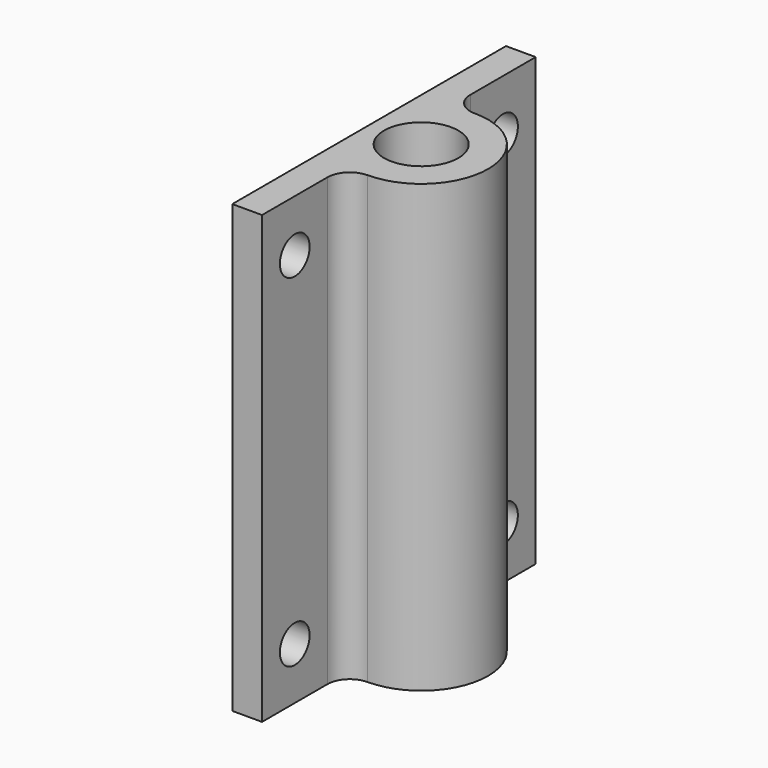
from build123d import *

# Parameters (mm, degrees)
F0_R     = 5
F1_DEPTH = 2
F2_R     = 5
F3_DEPTH = 58
F4_R     = 2.5
F5_DEPTH = 10


with BuildPart() as f1:
    # F0 (on Top) → F1 (new body)
    with BuildSketch(Plane.XY):
        with BuildLine():
            ThreePointArc((-3, -12), (-2.12132, -9.87868), (0, -9))
            ThreePointArc((0, -9), (9, 0), (0, 9))
            ThreePointArc((0, 9), (-2.12132, 9.87868), (-3, 12))
            Line((-3, 12), (-3, 23))
            Line((-3, 23), (-7, 23))
            Line((-7, 23), (-7, -23))
            Line((-7, -23), (-3, -23))
            Line((-3, -23), (-3, -12))
        make_face()
        Circle(F0_R, mode=Mode.SUBTRACT)
        Circle(F0_R)
    extrude(amount=F1_DEPTH)

    # F2 (on face) → F3 (join)
    with BuildSketch(Plane.XY.offset(2)):
        with BuildLine():
            ThreePointArc((-3, -12), (-2.12132, -9.87868), (0, -9))
            ThreePointArc((0, -9), (9, 0), (0, 9))
            ThreePointArc((0, 9), (-2.12132, 9.87868), (-3, 12))
            Line((-3, 12), (-3, 23))
            Line((-3, 23), (-7, 23))
            Line((-7, 23), (-7, -23))
            Line((-7, -23), (-3, -23))
            Line((-3, -23), (-3, -12))
        make_face()
        with Locations((0, 0)):
            Circle(F2_R, mode=Mode.SUBTRACT)
    extrude(amount=F3_DEPTH)

    # F4 (on face) → F5 (cut)
    with BuildSketch(Plane(origin=(-7, 0, 0), x_dir=(0, -1, 0), z_dir=(-1, 0, 0))):
        with Locations((-17.5, 53)):
            Circle(F4_R)
        with Locations((17.5, 7)):
            Circle(F4_R)
        with Locations((-17.5, 7)):
            Circle(F4_R)
        with Locations((17.5, 53)):
            Circle(F4_R)
    extrude(amount=-F5_DEPTH, mode=Mode.SUBTRACT)


solid = f1.part
